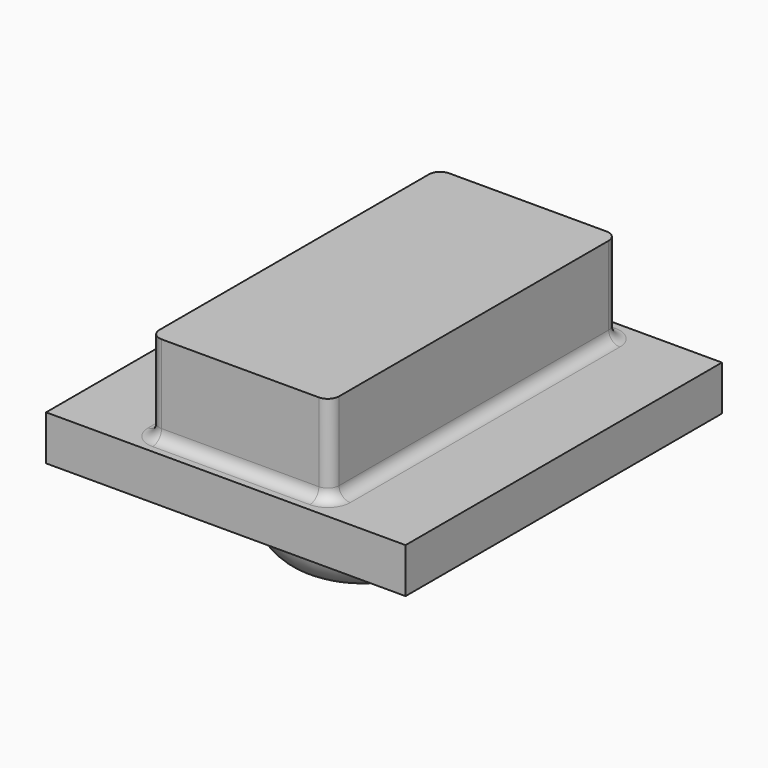
from build123d import *

# Parameters (mm, degrees)
SKETCH030_W  = 8
SKETCH030_H  = 8.8
PAD008_DEPTH = 1
PAD009_DEPTH = 2
FILLET015_R  = 1
SKETCH032_W  = 4
SKETCH032_H  = 8
PAD010_DEPTH = 2
FILLET016_R  = 0.25


with BuildPart() as part:
    # Sketch030 → Pad008 (new body)
    with BuildSketch(Plane.XY):
        Rectangle(SKETCH030_W, SKETCH030_H)
    extrude(amount=PAD008_DEPTH)

    # Sketch031 (on Face5 of Pad008) → Pad009 (join)
    with BuildSketch(Plane(origin=(0, 0, 0), x_dir=(1, 0, 0), z_dir=(0, 0, -1))):
        with BuildLine():
            ThreePointArc((1.9, 0.6), (0, 2.5), (-1.9, 0.6))
            Line((-1.9, 0.6), (-1.9, -4.4))
            Line((-1.9, -4.4), (1.9, -4.4))
            Line((1.9, 0.6), (1.9, -4.4))
        make_face()
    extrude(amount=PAD009_DEPTH)

    # Fillet015
    fillet015_edges = [part.edges().sort_by_distance(p)[0] for p in [
        (1.9, 1.9, -2),
        (0, -2.5, -2),
        (-1.9, 1.9, -2),
        (0, 4.4, -2),
    ]]
    fillet(fillet015_edges, radius=FILLET015_R)

    # Sketch032 (on Face6 of Pad008) → Pad010 (join)
    with BuildSketch(Plane.XY.offset(1)):
        Rectangle(SKETCH032_W, SKETCH032_H)
    extrude(amount=PAD010_DEPTH)

    # Fillet016
    fillet016_edges = [part.edges().sort_by_distance(p)[0] for p in [
        (-2, 4, 2),
        (2, 4, 2),
        (2, -4, 2),
        (-2, -4, 2),
        (-2, 0, 1),
        (0, 4, 1),
        (2, 0, 1),
        (0, -4, 1),
    ]]
    fillet(fillet016_edges, radius=FILLET016_R)


solid = part.part
